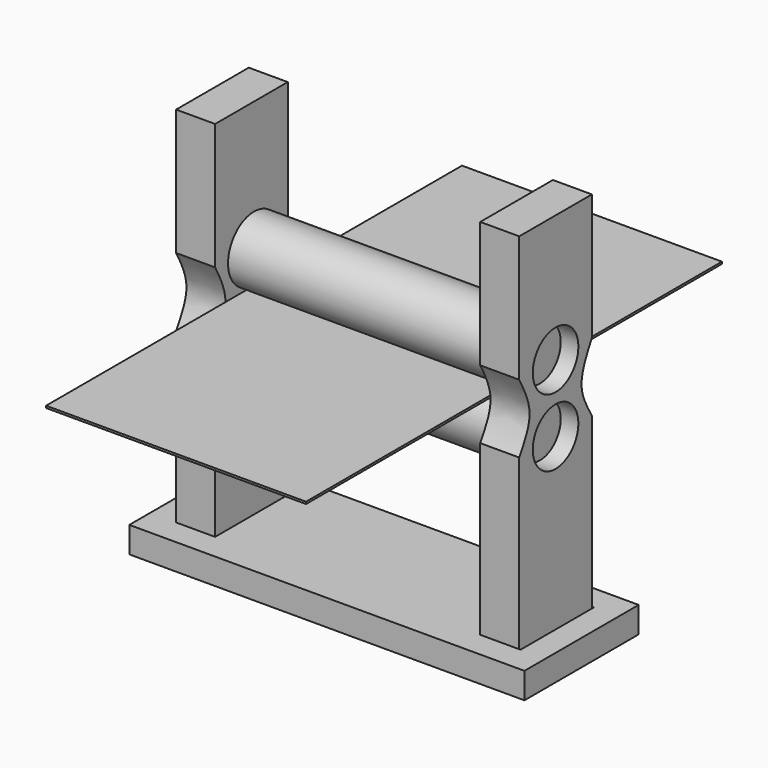
from build123d import *

# Parameters (mm, degrees)
F0_R      = 12.5
F1_DEPTH  = 100
F2_R      = 10
F3_DEPTH  = 10
F4_R      = 10
F5_DEPTH  = 10
F7_R      = 10.9638952701
F8_DEPTH  = 15
F12_W     = 152.0000616312
F12_H     = 54.9319090694
F12_W_2   = 15.6274363399
F12_H_2   = 35.2383274585
F12_W_3   = 15
F12_H_3   = 34.9319055676
F13_DEPTH = 10
F14_W     = 100
F14_H     = 0.8
F15_DEPTH = 100


with BuildPart() as f1:
    # F0 (on Right) → F1 (new body)
    with BuildSketch(Plane.YZ):
        Circle(F0_R)
    extrude(amount=F1_DEPTH)

    # F2 (on face) → F3 (join)
    with BuildSketch(Plane.YZ.offset(100)):
        Circle(F2_R)
    extrude(amount=F3_DEPTH)

    # F4 (on face) → F5 (join)
    with BuildSketch(Plane(origin=(0, 0, 0), x_dir=(0, -1, 0), z_dir=(-1, 0, 0))):
        Circle(F4_R)
    extrude(amount=F5_DEPTH)


with BuildPart() as f6_1:
    # F6: copy of F1
    add(f1.part.moved(Location((0, 0, 26))))


with BuildPart() as f8:
    # F7 (on Right) → F8 (new body)
    with BuildSketch(Plane.YZ):
        with BuildLine():
            Line((17.4659527838, 74.9197527766), (-17.4659527838, 74.9197527766))
            Line((-17.4659527838, 74.9197527766), (-17.4659527838, 26.3521410525))
            add(Edge.make_bspline(
                [(-17.4659527838, 26.3521410525), (-14.9449279168, 21.6685131415), (-10.0136790908, 12.5071062314), (-15.0193526084, 4.1061143968), (-17.4659527838, 0)],
                knots=[0, 0, 0, 0, 0.5112345688, 1, 1, 1, 1], degree=3))
            Line((-17.4659527838, 0), (-17.4659527838, -74.9197527766))
            Line((-17.4659527838, -74.9197527766), (17.4659527838, -74.9197527766))
            Line((17.4659527838, -74.9197527766), (17.4659527838, 0))
            add(Edge.make_bspline(
                [(17.4659527838, 26.3521410525), (14.9449279168, 21.6685131415), (10.0136790908, 12.5071062314), (15.0193526084, 4.1061143968), (17.4659527838, 0)],
                knots=[0, 0, 0, 0, 0.5112345688, 1, 1, 1, 1], degree=3))
            Line((17.4659527838, 26.3521410525), (17.4659527838, 74.9197527766))
        make_face()
        Circle(F7_R, mode=Mode.SUBTRACT)
        with Locations((0, 26)):
            Circle(F7_R, mode=Mode.SUBTRACT)
    extrude(amount=-F8_DEPTH)


with BuildPart() as f8_1:
    # F9: moved
    add(f8.part.moved(Location((2, 0, 0))))


with BuildPart() as f8_2:
    # F10: moved
    add(f8_1.part.moved(Location((-3, 0, 0))))


with BuildPart() as f11_1:
    # F11: copy of F8
    add(f8_2.part.moved(Location((117, 0, 0))))


with BuildPart() as f13:
    # F12 (on face) → F13 (new body)
    with BuildSketch(Plane(origin=(0, 0, -74.9197527766), x_dir=(1, 0, 0), z_dir=(0, 0, -1))):
        with Locations((50.0000308156, -1.7509e-06)):
            Rectangle(F12_W, F12_H)
        with Locations((108.6931265891, -0.1532109454)):
            Rectangle(F12_W_2, F12_H_2, mode=Mode.SUBTRACT)
        with Locations((-8.5, 0)):
            Rectangle(F12_W_3, F12_H_3, mode=Mode.SUBTRACT)
    extrude(amount=-F13_DEPTH)


with BuildPart() as f15:
    # F14 (on Front) → F15 (new body, symmetric)
    with BuildSketch(Plane.XZ):
        with Locations((50, 12.9930998474)):
            Rectangle(F14_W, F14_H)
    extrude(amount=F15_DEPTH, both=True)


solid = Compound([f1.part, f6_1.part, f8_2.part, f11_1.part, f13.part, f15.part])
